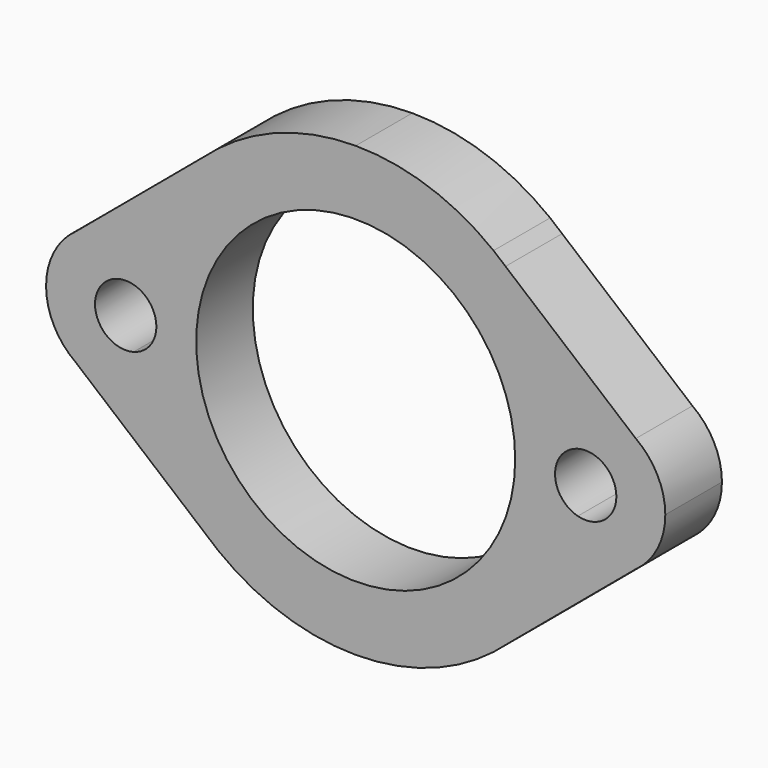
from build123d import *

# Parameters (mm, degrees)
F0_R     = 27.05
F1_DEPTH = 12


with BuildPart() as f1:
    # F0 (on Front) → F1 (new body)
    with BuildSketch(Plane.XZ):
        with BuildLine():
            Line((-66.333731852, 225.8735977012), (-88.4299040636, 207.3600747496))
            ThreePointArc((-88.4299040636, 207.3600747496), (-83.0164485889, 209.5079378807), (-77.2292867797, 208.8540461453))
            ThreePointArc((-77.2292867797, 208.8540461453), (-72.9336199483, 218.1013786467), (-66.333731852, 225.8735977012))
        make_face()
        with BuildLine():
            ThreePointArc((-88.4299040636, 207.3600747496), (-92.1069823157, 203.0905059798), (-93.4299040636, 197.6132804047))
            ThreePointArc((-93.4299040636, 197.6132804047), (-92.1069823157, 192.1360548297), (-88.4299040636, 187.8664860599))
            ThreePointArc((-88.4299040636, 187.8664860599), (-83.0164485889, 185.7186229288), (-77.2292867797, 186.3725146642))
            ThreePointArc((-77.2292867797, 186.3725146642), (-78.0429869708, 189.4512293681), (-78.5960579098, 192.5872626533))
            ThreePointArc((-78.5960579098, 192.5872626533), (-85.1299040636, 197.6132804047), (-78.5960579098, 202.6392981562))
            ThreePointArc((-78.5960579098, 202.6392981562), (-78.0429869708, 205.7753314414), (-77.2292867797, 208.8540461453))
            ThreePointArc((-77.2292867797, 208.8540461453), (-83.0164485889, 209.5079378807), (-88.4299040636, 207.3600747496))
        make_face()
        with BuildLine():
            ThreePointArc((-64.3060042971, 167.6540090873), (-53.2900757844, 161.6796449773), (-40.9299040636, 159.6132804047))
            ThreePointArc((-40.9299040636, 159.6132804047), (-28.5697323428, 161.6796449773), (-17.5538038301, 167.6540090873))
            Line((-17.5538038301, 167.6540090873), (-15.5260762752, 169.3529631083))
            ThreePointArc((-15.5260762752, 169.3529631083), (-8.9261881789, 177.1251821628), (-4.6305213476, 186.3725146642))
            ThreePointArc((-4.6305213476, 186.3725146642), (-3.8168211564, 189.4512293681), (-3.2637502175, 192.5872626533))
            ThreePointArc((-3.2637502175, 192.5872626533), (-7.1299040636, 197.6132804047), (-3.2637502175, 202.6392981562))
            ThreePointArc((-3.2637502175, 202.6392981562), (-3.8168211564, 205.7753314414), (-4.6305213476, 208.8540461453))
            ThreePointArc((-4.6305213476, 208.8540461453), (-8.9261881789, 218.1013786467), (-15.5260762752, 225.8735977012))
            Line((-15.5260762752, 225.8735977012), (-17.5538038301, 227.5725517222))
            ThreePointArc((-17.5538038301, 227.5725517222), (-28.5697323428, 233.5469158322), (-40.9299040636, 235.6132804047))
            ThreePointArc((-40.9299040636, 235.6132804047), (-53.2900757844, 233.5469158322), (-64.3060042971, 227.5725517222))
            Line((-64.3060042971, 227.5725517222), (-66.333731852, 225.8735977012))
            ThreePointArc((-66.333731852, 225.8735977012), (-72.9336199483, 218.1013786467), (-77.2292867797, 208.8540461453))
            ThreePointArc((-77.2292867797, 208.8540461453), (-78.0429869708, 205.7753314414), (-78.5960579098, 202.6392981562))
            ThreePointArc((-78.5960579098, 202.6392981562), (-75.8082539087, 200.783769326), (-74.7299040636, 197.6132804047))
            ThreePointArc((-74.7299040636, 197.6132804047), (-75.8082539087, 194.4427914835), (-78.5960579098, 192.5872626533))
            ThreePointArc((-78.5960579098, 192.5872626533), (-78.0429869708, 189.4512293681), (-77.2292867797, 186.3725146642))
            ThreePointArc((-77.2292867797, 186.3725146642), (-72.9336199483, 177.1251821628), (-66.333731852, 169.3529631083))
            Line((-66.333731852, 169.3529631083), (-64.3060042971, 167.6540090873))
        make_face()
        with Locations((-40.9299040636, 197.6132804047)):
            Circle(F0_R, mode=Mode.SUBTRACT)
        with BuildLine():
            ThreePointArc((-77.2292867797, 186.3725146642), (-83.0164485889, 185.7186229288), (-88.4299040636, 187.8664860599))
            Line((-88.4299040636, 187.8664860599), (-66.333731852, 169.3529631083))
            ThreePointArc((-66.333731852, 169.3529631083), (-72.9336199483, 177.1251821628), (-77.2292867797, 186.3725146642))
        make_face()
        with BuildLine():
            ThreePointArc((-4.6305213476, 186.3725146642), (-8.9261881789, 177.1251821628), (-15.5260762752, 169.3529631083))
            Line((-15.5260762752, 169.3529631083), (6.5700959364, 187.8664860599))
            ThreePointArc((6.5700959364, 187.8664860599), (1.1566404616, 185.7186229288), (-4.6305213476, 186.3725146642))
        make_face()
        with BuildLine():
            ThreePointArc((-4.6305213476, 208.8540461453), (1.1566404616, 209.5079378807), (6.5700959364, 207.3600747496))
            Line((6.5700959364, 207.3600747496), (-15.5260762752, 225.8735977012))
            ThreePointArc((-15.5260762752, 225.8735977012), (-8.9261881789, 218.1013786467), (-4.6305213476, 208.8540461453))
        make_face()
        with BuildLine():
            ThreePointArc((6.5700959364, 187.8664860599), (10.2471741992, 192.1360548507), (11.5700959364, 197.613280452))
            ThreePointArc((11.5700959364, 197.613280452), (10.2471741776, 203.0905060008), (6.5700959364, 207.3600747496))
            ThreePointArc((6.5700959364, 207.3600747496), (1.1566404616, 209.5079378807), (-4.6305213476, 208.8540461453))
            ThreePointArc((-4.6305213476, 208.8540461453), (-3.8168211564, 205.7753314414), (-3.2637502175, 202.6392981562))
            ThreePointArc((-3.2637502175, 202.6392981562), (1.2405848577, 201.7349305597), (3.2700959364, 197.6132804047))
            ThreePointArc((3.2700959364, 197.6132804047), (1.2405848577, 193.4916302498), (-3.2637502175, 192.5872626533))
            ThreePointArc((-3.2637502175, 192.5872626533), (-3.8168211564, 189.4512293681), (-4.6305213476, 186.3725146642))
            ThreePointArc((-4.6305213476, 186.3725146642), (1.1566404616, 185.7186229288), (6.5700959364, 187.8664860599))
        make_face()
    extrude(amount=F1_DEPTH)


solid = f1.part
